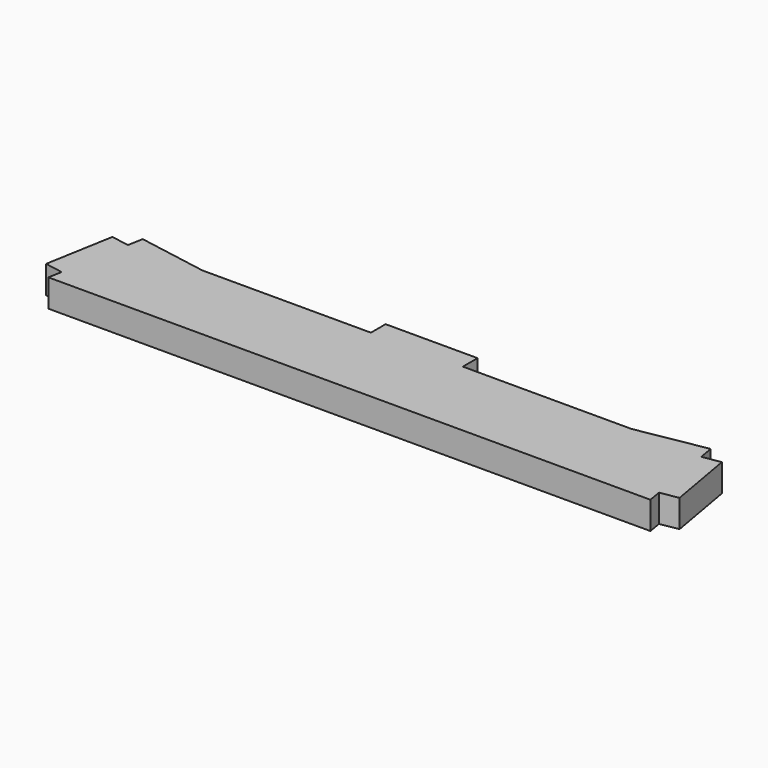
from build123d import *

# Parameters (mm, degrees)
PAD_DEPTH = 18


with BuildPart() as part:
    # Sketch → Pad (new body)
    with BuildSketch(Plane.XY):
        Polygon((0, 67), (30, 67), (30, 55), (140, 55), (185.301157, 62.987816), (187.037638, 53.139739), (198.855331, 55.223517), (206.669499, 10.907168), (194.851806, 8.82339), (196.407608, 0), (0, 0), align=None)
    pad = extrude(amount=PAD_DEPTH)

    # Mirrored: Pad across Sketch V_Axis
    add(pad.mirror(Plane(origin=(0, 0, 0), x_dir=(0, 0, 1), z_dir=(1, 0, 0))))


solid = part.part
